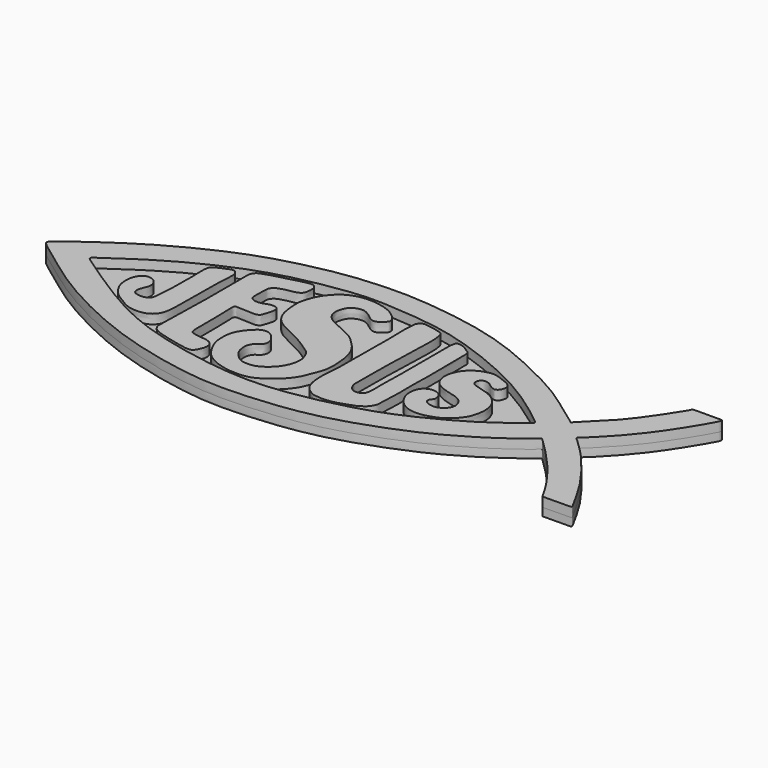
from build123d import *

# Parameters (mm, degrees)
F1_DEPTH = 1.2
F2_DEPTH = 1.4
F4_DEPTH = 1.4


with BuildPart() as f1:
    # F0 (on Top) → F1 (new body)
    with BuildSketch(Plane.XY):
        with BuildLine():
            add(Edge.make_bspline(
                [(-43.031219393, -3.6215421278), (-43.0401101532, -3.3956789099), (-42.1778940203, -2.615741381), (-36.8683866093, 1.2809185281), (-30.4366906731, 5.2325107346), (-22.1013352862, 9.1652834682), (-14.1446152779, 11.1480264851), (-9.1325028157, 11.9738115561), (-3.5176965877, 12.3176364163), (1.5448362993, 12.0922765028), (9.0594719315, 11.0493380322), (15.2803426019, 9.2352519358), (20.6334757072, 6.8533119738), (26.0751942455, 4.1291421377), (29.3903348279, 1.7300821172), (33.0245222369, -0.8482026665), (33.1025277506, -1.0395243863), (33.9047509366, -0.0091894128), (37.1780270169, 2.8880546695), (39.8363647052, 6.6807672229), (41.9579289635, 9.9024071216), (41.9947026793, 10.1696343737), (42.1800977792, 10.4650137574), (42.2828016541, 10.4689683158), (46.511756009, 10.5664729451), (46.5447635174, 10.4363389366), (46.5227730361, 10.1308533292), (46.3530605727, 9.68393666), (42.0660914793, 2.2096587515), (36.7983122491, -2.9714825467), (36.2055062651, -3.4021984465), (36.1078737733, -3.5347096618), (36.0932366558, -3.7268504327), (36.3039441205, -3.8066232704), (38.4139889081, -5.8692713437), (39.4748737725, -6.9941318474), (41.6286965799, -9.5579595656), (43.9981918641, -12.8807217494), (45.4060667727, -15.4214840712), (46.5348349338, -17.3737108019), (46.501967636, -17.4908855965), (46.5198529553, -17.573564463), (46.4236731804, -17.6227927852), (46.3720931883, -17.6065336963), (42.4172409302, -17.6234246975), (42.3405078684, -17.6807750746), (42.1899745805, -17.6181589114), (42.074209391, -17.4167100794), (40.8911302811, -15.2010978912), (38.0549379577, -11.3961958364), (35.494905722, -8.6383753681), (33.3748434311, -6.5145387203), (33.1991840527, -6.4319917961), (33.0961691915, -6.2616964833), (32.9642277468, -6.3159605791), (32.8277174234, -6.4619439899), (32.2254075278, -6.9917214406), (28.8922245487, -9.5173698097), (22.4736396762, -13.5263607413), (13.6041897449, -17.0088883666), (6.1006423527, -18.95581677), (-3.3026712381, -19.6829448337), (-9.7572604922, -19.3455526754), (-22.2649409961, -16.6499305606), (-33.891016358, -10.6729588168), (-38.5064648078, -7.2240165729), (-42.2122142832, -4.5514467124), (-43.0223366104, -3.8472026828), (-43.031219393, -3.6215421278)],
                knots=[0, 0, 0, 0, 0.0094847359, 0.0332365676, 0.0598628212, 0.0884700263, 0.1152422107, 0.1364379006, 0.1582552997, 0.1795957917, 0.2053600897, 0.2293992414, 0.2522004221, 0.2749826954, 0.2954008264, 0.3141136932, 0.3166130002, 0.3257519957, 0.3455221673, 0.3670885997, 0.3845512425, 0.389219823, 0.3941383134, 0.3980081416, 0.4171297206, 0.4198296057, 0.4245059586, 0.4303133911, 0.4578526524, 0.4838737847, 0.4905557366, 0.4940567967, 0.4977080289, 0.5016365912, 0.5172590534, 0.5298975506, 0.5467117433, 0.5658749631, 0.582726117, 0.595884193, 0.5985856801, 0.6010367928, 0.6036620629, 0.606563961, 0.6250757468, 0.6285771005, 0.6317875884, 0.6357855969, 0.6499156562, 0.6708582281, 0.6901065081, 0.7054260521, 0.7092460332, 0.7129760853, 0.7160775499, 0.7200061105, 0.7276462559, 0.7461954315, 0.772597206, 0.8015370756, 0.8280835004, 0.8563166816, 0.8803008046, 0.9138863086, 0.9479642859, 0.9708509668, 0.9905237746, 1, 1, 1, 1], degree=3))
        make_face()
        with BuildLine():
            add(Edge.make_bspline(
                [(-35.2086238563, -4.6942098998), (-35.5560492691, -4.4549340903), (-35.8023955992, -4.2855470609), (-36.4771119968, -3.8192019021), (-36.5613563891, -3.6729759366), (-36.6721448637, -3.4510821527), (-35.4871413647, -2.6644329143), (-34.436389808, -1.9848345377), (-32.1487629995, -0.355742233), (-27.5101540788, 2.5177900207), (-21.3770945882, 5.3873769777), (-17.8557997637, 6.5517019847), (-13.8406297339, 7.6861817096), (-6.1528974739, 9.029849479), (-0.7732841667, 8.7950185924), (6.9327809569, 8.0990668116), (14.1196713233, 5.7391524967), (20.8239740998, 2.8407366486), (26.1452742876, -0.5287973779), (29.5403865218, -3.2480544731), (29.7883593759, -3.4552252407), (29.8578722159, -3.5624749225), (29.8995992674, -3.7583260773), (29.5322546187, -4.0096688328), (25.352310231, -7.4475001734), (19.4870151494, -10.5706905966), (13.3432631821, -13.5014820582), (1.845989822, -16.1829622606), (-6.5894812229, -16.2298607675), (-17.7466162352, -14.1655878899), (-26.3284813584, -10.8134796234), (-34.0134557081, -5.517335715), (-35.2086238563, -4.6942098998)],
                knots=[0, 0, 0, 0, 0.0155660886, 0.0299913623, 0.0368898659, 0.0434544558, 0.0625054155, 0.0823981502, 0.1099887241, 0.1506085168, 0.1953004772, 0.2277039994, 0.2624274464, 0.3097017561, 0.3500741492, 0.3969252205, 0.4442519612, 0.4902742004, 0.5347200691, 0.5685155727, 0.5767707136, 0.5825152139, 0.5892699988, 0.5986528969, 0.6368941042, 0.6821834817, 0.7269928393, 0.784881239, 0.8354052055, 0.8915213444, 0.9464515471, 1, 1, 1, 1], degree=3))
        make_face(mode=Mode.SUBTRACT)
        with BuildLine():
            add(Edge.make_bspline(
                [(-35.2086238563, -4.6942098998), (-35.5560492691, -4.4549340903), (-35.8023955992, -4.2855470609), (-36.4771119968, -3.8192019021), (-36.5613563891, -3.6729759366), (-36.6721448637, -3.4510821527), (-35.4871413647, -2.6644329143), (-34.436389808, -1.9848345377), (-32.1487629995, -0.355742233), (-27.5101540788, 2.5177900207), (-21.3770945882, 5.3873769777), (-17.8557997637, 6.5517019847), (-13.8406297339, 7.6861817096), (-6.1528974739, 9.029849479), (-0.7732841667, 8.7950185924), (6.9327809569, 8.0990668116), (14.1196713233, 5.7391524967), (20.8239740998, 2.8407366486), (26.1452742876, -0.5287973779), (29.5403865218, -3.2480544731), (29.7883593759, -3.4552252407), (29.8578722159, -3.5624749225), (29.8995992674, -3.7583260773), (29.5322546187, -4.0096688328), (25.352310231, -7.4475001734), (19.4870151494, -10.5706905966), (13.3432631821, -13.5014820582), (1.845989822, -16.1829622606), (-6.5894812229, -16.2298607675), (-17.7466162352, -14.1655878899), (-26.3284813584, -10.8134796234), (-34.0134557081, -5.517335715), (-35.2086238563, -4.6942098998)],
                knots=[0, 0, 0, 0, 0.0155660886, 0.0299913623, 0.0368898659, 0.0434544558, 0.0625054155, 0.0823981502, 0.1099887241, 0.1506085168, 0.1953004772, 0.2277039994, 0.2624274464, 0.3097017561, 0.3500741492, 0.3969252205, 0.4442519612, 0.4902742004, 0.5347200691, 0.5685155727, 0.5767707136, 0.5825152139, 0.5892699988, 0.5986528969, 0.6368941042, 0.6821834817, 0.7269928393, 0.784881239, 0.8354052055, 0.8915213444, 0.9464515471, 1, 1, 1, 1], degree=3))
        make_face()
    extrude(amount=-F1_DEPTH)

    # F0 (on Top) → F2 (join)
    with BuildSketch(Plane.XY):
        with BuildLine():
            add(Edge.make_bspline(
                [(-43.031219393, -3.6215421278), (-43.0401101532, -3.3956789099), (-42.1778940203, -2.615741381), (-36.8683866093, 1.2809185281), (-30.4366906731, 5.2325107346), (-22.1013352862, 9.1652834682), (-14.1446152779, 11.1480264851), (-9.1325028157, 11.9738115561), (-3.5176965877, 12.3176364163), (1.5448362993, 12.0922765028), (9.0594719315, 11.0493380322), (15.2803426019, 9.2352519358), (20.6334757072, 6.8533119738), (26.0751942455, 4.1291421377), (29.3903348279, 1.7300821172), (33.0245222369, -0.8482026665), (33.1025277506, -1.0395243863), (33.9047509366, -0.0091894128), (37.1780270169, 2.8880546695), (39.8363647052, 6.6807672229), (41.9579289635, 9.9024071216), (41.9947026793, 10.1696343737), (42.1800977792, 10.4650137574), (42.2828016541, 10.4689683158), (46.511756009, 10.5664729451), (46.5447635174, 10.4363389366), (46.5227730361, 10.1308533292), (46.3530605727, 9.68393666), (42.0660914793, 2.2096587515), (36.7983122491, -2.9714825467), (36.2055062651, -3.4021984465), (36.1078737733, -3.5347096618), (36.0932366558, -3.7268504327), (36.3039441205, -3.8066232704), (38.4139889081, -5.8692713437), (39.4748737725, -6.9941318474), (41.6286965799, -9.5579595656), (43.9981918641, -12.8807217494), (45.4060667727, -15.4214840712), (46.5348349338, -17.3737108019), (46.501967636, -17.4908855965), (46.5198529553, -17.573564463), (46.4236731804, -17.6227927852), (46.3720931883, -17.6065336963), (42.4172409302, -17.6234246975), (42.3405078684, -17.6807750746), (42.1899745805, -17.6181589114), (42.074209391, -17.4167100794), (40.8911302811, -15.2010978912), (38.0549379577, -11.3961958364), (35.494905722, -8.6383753681), (33.3748434311, -6.5145387203), (33.1991840527, -6.4319917961), (33.0961691915, -6.2616964833), (32.9642277468, -6.3159605791), (32.8277174234, -6.4619439899), (32.2254075278, -6.9917214406), (28.8922245487, -9.5173698097), (22.4736396762, -13.5263607413), (13.6041897449, -17.0088883666), (6.1006423527, -18.95581677), (-3.3026712381, -19.6829448337), (-9.7572604922, -19.3455526754), (-22.2649409961, -16.6499305606), (-33.891016358, -10.6729588168), (-38.5064648078, -7.2240165729), (-42.2122142832, -4.5514467124), (-43.0223366104, -3.8472026828), (-43.031219393, -3.6215421278)],
                knots=[0, 0, 0, 0, 0.0094847359, 0.0332365676, 0.0598628212, 0.0884700263, 0.1152422107, 0.1364379006, 0.1582552997, 0.1795957917, 0.2053600897, 0.2293992414, 0.2522004221, 0.2749826954, 0.2954008264, 0.3141136932, 0.3166130002, 0.3257519957, 0.3455221673, 0.3670885997, 0.3845512425, 0.389219823, 0.3941383134, 0.3980081416, 0.4171297206, 0.4198296057, 0.4245059586, 0.4303133911, 0.4578526524, 0.4838737847, 0.4905557366, 0.4940567967, 0.4977080289, 0.5016365912, 0.5172590534, 0.5298975506, 0.5467117433, 0.5658749631, 0.582726117, 0.595884193, 0.5985856801, 0.6010367928, 0.6036620629, 0.606563961, 0.6250757468, 0.6285771005, 0.6317875884, 0.6357855969, 0.6499156562, 0.6708582281, 0.6901065081, 0.7054260521, 0.7092460332, 0.7129760853, 0.7160775499, 0.7200061105, 0.7276462559, 0.7461954315, 0.772597206, 0.8015370756, 0.8280835004, 0.8563166816, 0.8803008046, 0.9138863086, 0.9479642859, 0.9708509668, 0.9905237746, 1, 1, 1, 1], degree=3))
        make_face()
        with BuildLine():
            add(Edge.make_bspline(
                [(-35.2086238563, -4.6942098998), (-35.5560492691, -4.4549340903), (-35.8023955992, -4.2855470609), (-36.4771119968, -3.8192019021), (-36.5613563891, -3.6729759366), (-36.6721448637, -3.4510821527), (-35.4871413647, -2.6644329143), (-34.436389808, -1.9848345377), (-32.1487629995, -0.355742233), (-27.5101540788, 2.5177900207), (-21.3770945882, 5.3873769777), (-17.8557997637, 6.5517019847), (-13.8406297339, 7.6861817096), (-6.1528974739, 9.029849479), (-0.7732841667, 8.7950185924), (6.9327809569, 8.0990668116), (14.1196713233, 5.7391524967), (20.8239740998, 2.8407366486), (26.1452742876, -0.5287973779), (29.5403865218, -3.2480544731), (29.7883593759, -3.4552252407), (29.8578722159, -3.5624749225), (29.8995992674, -3.7583260773), (29.5322546187, -4.0096688328), (25.352310231, -7.4475001734), (19.4870151494, -10.5706905966), (13.3432631821, -13.5014820582), (1.845989822, -16.1829622606), (-6.5894812229, -16.2298607675), (-17.7466162352, -14.1655878899), (-26.3284813584, -10.8134796234), (-34.0134557081, -5.517335715), (-35.2086238563, -4.6942098998)],
                knots=[0, 0, 0, 0, 0.0155660886, 0.0299913623, 0.0368898659, 0.0434544558, 0.0625054155, 0.0823981502, 0.1099887241, 0.1506085168, 0.1953004772, 0.2277039994, 0.2624274464, 0.3097017561, 0.3500741492, 0.3969252205, 0.4442519612, 0.4902742004, 0.5347200691, 0.5685155727, 0.5767707136, 0.5825152139, 0.5892699988, 0.5986528969, 0.6368941042, 0.6821834817, 0.7269928393, 0.784881239, 0.8354052055, 0.8915213444, 0.9464515471, 1, 1, 1, 1], degree=3))
        make_face(mode=Mode.SUBTRACT)
    extrude(amount=F2_DEPTH)

    # F3 (on face) → F4 (join)
    with BuildSketch(Plane.XY):
        with BuildLine():
            add(Edge.make_bspline(
                [(-26.0046981275, -7.3765199631), (-26.1926642682, -7.3764443188), (-26.5427466606, -7.3475394744), (-26.9352724032, -7.2051876049), (-27.2106619849, -6.9227643059), (-27.3144181957, -6.5758804963), (-27.2235043994, -6.0426920136), (-26.966370209, -5.3736692428), (-26.7314054582, -4.8485463123), (-26.7280108875, -4.2104939537), (-27.000434868, -3.6016787373), (-27.498435694, -3.2179723286), (-28.0838734348, -2.9904605442), (-28.6652973005, -3.0407063069), (-29.2943793318, -3.4410822264), (-29.7041054077, -4.3040245947), (-29.8763773019, -5.2956455286), (-29.6952917358, -6.8777315583), (-28.7005030798, -8.3383878956), (-27.8018701553, -9.1036730397), (-26.2719618642, -10.0097306172), (-25.1917392236, -10.5590466571), (-23.6765535766, -10.6548033494), (-22.4171153786, -10.3492380815), (-21.3646285385, -9.4274129363), (-21.0869248974, -7.7065465174), (-21.0626662778, -6.5906629767), (-21.0017705348, -3.6312714423), (-21.0741312292, -0.1868753815), (-20.8523138165, 2.9762255609), (-20.8467324242, 3.7097576416), (-21.0958282791, 4.1933794722), (-21.3918108326, 4.4229964134), (-21.7525427286, 4.503662402), (-22.1776629955, 4.3249520956), (-22.6995212918, 4.1254412158), (-23.3660042399, 3.8401591858), (-23.7888097259, 3.6235734464), (-24.1778268688, 3.3947976108), (-24.3122842368, 3.0145829071), (-24.3777288564, 2.5750132771), (-24.4239145569, 2.0900194277), (-24.3184269871, 0.3752100408), (-24.4137698258, -1.3996176035), (-24.3568460452, -3.2435387487), (-24.5161099121, -5.3697879599), (-24.5615666769, -6.0569132513), (-24.6328713863, -6.5671137987), (-24.7692887164, -6.898157276), (-24.9952329243, -7.1631267888), (-25.4442836266, -7.345985892), (-25.8123763558, -7.3765973604), (-26.0046981275, -7.3765199631)],
                knots=[0, 0, 0, 0, 0.0157422945, 0.0294067876, 0.0424161465, 0.0548646756, 0.0704336, 0.0886255176, 0.1048419365, 0.1215551397, 0.1387121947, 0.1554941567, 0.1721824293, 0.1881028323, 0.206033237, 0.2264786851, 0.2478476734, 0.2745972727, 0.3025628531, 0.3260798516, 0.3541698328, 0.377968495, 0.4037565032, 0.4278717133, 0.4523719805, 0.4796560273, 0.5024852116, 0.5383787672, 0.5799835774, 0.6173597475, 0.6350342607, 0.6499854899, 0.6628513934, 0.6753286413, 0.6895149349, 0.705757785, 0.7239474692, 0.7388712072, 0.7527416168, 0.7660180295, 0.7798954776, 0.7946328588, 0.8222156942, 0.8512166641, 0.8808671837, 0.9118262749, 0.9295315719, 0.9443730845, 0.9569944547, 0.9692651697, 0.9838929184, 1, 1, 1, 1], degree=3))
        make_face()
        with BuildLine():
            add(Edge.make_bspline(
                [(-15.6035749242, 1.9969278947), (-15.5968198481, 2.2002735006), (-15.5790110703, 2.6106673131), (-15.6001275726, 3.28626252), (-15.3299673686, 3.6916180057), (-15.0031978085, 4.0189077807), (-14.4113852596, 4.2051471368), (-13.7697839213, 4.4405862029), (-12.5899500229, 4.5389032035), (-11.673303612, 4.9625016462), (-11.510065149, 5.5914460049), (-11.3523133163, 6.6791210907), (-11.8490433613, 7.4463066945), (-12.9451355143, 7.3707348588), (-14.8819299234, 6.8480810505), (-16.8803747424, 6.3307263106), (-18.6162549541, 5.8035713081), (-19.162862975, 5.4984763006), (-19.5853586852, 4.8664944544), (-19.4923781378, 3.8647439326), (-19.5452660108, 0.3149992953), (-19.5049109588, -2.7129703239), (-19.6390780211, -7.9245884257), (-19.6981432284, -11.3540967665), (-19.7602111655, -11.9870425504), (-19.6016641643, -12.3722323685), (-19.2894304767, -12.8031015228), (-18.6813201433, -13.1708498322), (-17.4008722623, -13.557147798), (-16.0445058079, -13.8990957553), (-14.4139262799, -14.250720595), (-13.5575811825, -14.4037477723), (-12.8156232537, -14.3705404763), (-12.4066429943, -13.8459742585), (-12.0909681559, -13.1148978348), (-11.9707922404, -12.6377991155), (-12.0640711792, -11.8899117977), (-12.4600420349, -11.4516167499), (-13.2612897824, -11.146173346), (-14.329039241, -11.1159687113), (-14.9984731146, -10.9778179202), (-15.5562948562, -10.8198073534), (-15.736313438, -10.3939603705), (-15.8092937715, -9.8394460548), (-15.7628970904, -7.1737248899), (-15.8156974268, -4.4680340436), (-15.8611279455, -3.1663241225), (-15.8825428886, -2.8775461836), (-15.7930927599, -2.6310473267), (-15.5881578905, -2.5051686728), (-14.9900398235, -2.5768990916), (-14.1873092759, -2.6171863929), (-12.9363971191, -2.6491893109), (-12.5424308062, -2.6016792193), (-12.1662440528, -2.4825300011), (-11.969285803, -2.1440786641), (-11.626801709, -1.0903021262), (-11.5171175853, -0.4354941735), (-11.6084984656, 0.0190824397), (-11.9683221408, 0.4146144818), (-13.0088367394, 0.3638267624), (-13.8369605134, -0.0714579735), (-14.9455354033, -0.1006982289), (-15.6103983641, 0.3437563222), (-15.6379137134, 0.9350203177), (-15.6189389863, 1.4245945373), (-15.6100432097, 1.80221544), (-15.6035749242, 1.9969278947)],
                knots=[0, 0, 0, 0, 0.0127865817, 0.0259157572, 0.0369286161, 0.0477489148, 0.0602065093, 0.0736781812, 0.0914477969, 0.1070749221, 0.1196709297, 0.1364641079, 0.1505771622, 0.1665067698, 0.1895335656, 0.2135981453, 0.2350180129, 0.2475604663, 0.2605348897, 0.2764417955, 0.3063219429, 0.3356068025, 0.3731868625, 0.4027303018, 0.4146432446, 0.4245596423, 0.4360833744, 0.4495561297, 0.4680884962, 0.4877882863, 0.5086081595, 0.5238473582, 0.5370018458, 0.5498226646, 0.5641672939, 0.5756744305, 0.5892478711, 0.6013197928, 0.6161230453, 0.6329293331, 0.6465073049, 0.6583089929, 0.6684495955, 0.6801196983, 0.7063614051, 0.7342228093, 0.7518437193, 0.760149446, 0.7679343293, 0.7753423133, 0.787387302, 0.8026046473, 0.8205881311, 0.8309167902, 0.8403454858, 0.8502429607, 0.8673196025, 0.880747479, 0.8912609137, 0.9022848067, 0.918147555, 0.9341604776, 0.9508616386, 0.9645067967, 0.9763507253, 0.9877562798, 1, 1, 1, 1], degree=3))
        make_face()
        with BuildLine():
            add(Edge.make_bspline(
                [(-2.3801389616, -6.1294897459), (-2.7880794369, -5.8433790691), (-2.7215368109, -5.8973088641), (-4.6793508861, -4.5339770179), (-6.7520923139, -3.5857097331), (-8.955463971, -2.5052275921), (-10.0367862556, -1.1471527474), (-10.4394192431, 0.2760992696), (-10.6253199324, 1.9343600481), (-10.595656996, 3.2514751098), (-10.0728974607, 4.7768953207), (-9.5057673565, 5.9113274141), (-8.6578325948, 6.8947452412), (-8.0813221822, 7.433451291), (-7.1160250827, 8.019261127), (-6.086092822, 8.3363634513), (-5.1589770492, 8.4968252075), (-3.8094161883, 8.4929803337), (-2.6382904675, 8.317539446), (-1.0216656192, 7.8270390509), (-0.018420758, 6.9930470317), (0.5834730465, 6.4596265096), (0.7581795562, 5.7627350546), (0.5053312641, 5.4511389865), (-0.0139236678, 5.0451040917), (-0.4986784557, 4.5920259207), (-1.3005270688, 4.6878804138), (-1.8153575103, 5.1430822622), (-2.4784563941, 5.6510178367), (-3.3523139391, 6.0956732849), (-4.2250961278, 5.9961371451), (-5.0746224861, 5.5995930113), (-5.5299498889, 4.8929553096), (-5.870262378, 3.6840146219), (-5.5492933956, 2.5656395302), (-4.6854657038, 1.7614502015), (-3.5415799862, 1.2336135265), (-2.2193367529, 0.5640546254), (-0.883701227, 0.0830817612), (0.3184142099, -0.987347875), (1.4089635697, -2.1082718385), (2.2439703097, -3.6819749453), (2.5635435264, -5.9372380504), (2.6341431857, -8.2295061247), (1.9285160277, -10.0050374997), (1.3346341158, -11.6854751435), (0.0466476076, -13.3330940833), (-1.5820606382, -14.6668047438), (-3.3891821811, -15.6400246077), (-5.6527322653, -15.7209866154), (-7.9531508549, -15.3194807426), (-9.8057024413, -14.3927508402), (-10.8689525118, -13.2605599869), (-11.7779085323, -11.5800869744), (-12.104328619, -10.2088279036), (-12.0498409912, -9.1334599616), (-11.9797307998, -8.5725756362)],
                knots=[0, 0, 0, 0, 0.0126317561, 0.0349376814, 0.0603708556, 0.0850475915, 0.1055437147, 0.1247859608, 0.1452236221, 0.1636158916, 0.1835850289, 0.2018252438, 0.2196454402, 0.2338739494, 0.2506089252, 0.2671192801, 0.2826194514, 0.3008545632, 0.3184789364, 0.3390781134, 0.3572711417, 0.3714960768, 0.3840869033, 0.3936656688, 0.4065754765, 0.4193987134, 0.4328901954, 0.4460216582, 0.460637244, 0.4761906103, 0.4909255927, 0.5059511995, 0.5203641887, 0.5379516395, 0.5547501215, 0.5716514247, 0.5895707122, 0.6089552567, 0.6279212193, 0.647941406, 0.6678150017, 0.6887823258, 0.7128769578, 0.7369828358, 0.758770164, 0.7799245024, 0.8027866981, 0.8259341449, 0.8484598865, 0.8721898629, 0.8966786781, 0.9192470647, 0.9390528517, 0.9607930894, 0.979687944, 1, 1, 1, 1], degree=3))
            add(Edge.make_bspline(
                [(-11.9797307998, -8.5725756362), (-11.9085665419, -8.0704028947), (-11.6114150257, -7.3932704214), (-11.0901686036, -6.5691010135), (-10.3386913885, -5.7677894143), (-9.6616200228, -5.196519551), (-8.6091836431, -5.1195725205), (-7.8870066376, -5.6565175122), (-7.4718061697, -6.1759896855), (-7.0667016551, -6.7394995492), (-7.0153560163, -7.6014507654), (-7.4314456458, -8.2113679044), (-8.0643714374, -8.5294879006), (-8.4026785001, -9.0184558459), (-8.5947188088, -9.5953340891), (-8.5275945365, -10.3868020631), (-8.3231492027, -11.3323283429), (-7.4958434313, -12.2384370178), (-6.6407074643, -12.9032215985), (-5.6031026083, -12.9797124219), (-4.685286146, -12.9221837025), (-3.7846568357, -12.5039044816), (-3.0701484502, -11.9875545135), (-2.2648101198, -11.2027126413), (-1.7374309495, -10.2728094309), (-1.4052435081, -9.3707333749), (-1.2725796968, -8.2197686565), (-1.527646006, -7.4000747802), (-1.7756025857, -6.7629888918), (-2.1350554149, -6.3320842765), (-2.3801389616, -6.1294897459)],
                knots=[0, 0, 0, 0, 0.0424844434, 0.0794820574, 0.1189772768, 0.154417528, 0.1917173703, 0.2268837288, 0.2577210303, 0.2889094947, 0.323013794, 0.3547446323, 0.3862186236, 0.4148689875, 0.443892287, 0.4773031174, 0.5143201542, 0.5559682428, 0.5951050627, 0.6329273929, 0.6692929982, 0.7064333822, 0.7421636448, 0.7821415069, 0.8211464152, 0.8584480133, 0.8988809187, 0.9336827556, 0.9645797157, 1, 1, 1, 1], degree=3))
        make_face()
        with BuildLine():
            add(Edge.make_bspline(
                [(3.3850688487, 2.3589460179), (3.3963364129, 1.4888836598), (3.3738904553, 0.2962960598), (3.3574469315, -2.2377812427), (3.2735085886, -4.9077066546), (3.3738401809, -7.175382812), (3.0691445472, -9.6192321906), (3.1514827602, -11.2305197484), (3.3377202607, -12.2214728639), (3.7138692498, -13.1456981321), (4.3063668088, -13.6697118478), (5.1113172062, -14.2695489764), (6.0270773247, -14.3718973765), (6.85190671, -14.4521964911), (7.947147438, -14.3175429308), (8.9709705357, -14.1046795011), (10.2068943393, -13.6029525084), (11.159998664, -13.3273957926), (11.8267215554, -12.8023794783), (12.1365385351, -12.5649746444), (12.4720567608, -12.0471999745), (12.7309226781, -11.6011003876), (12.7339551286, -9.9915253917), (12.8907800363, -7.6197228872), (12.7752968179, -5.2921920313), (12.9144595629, -3.3176962854), (12.8491121042, -0.9594584376), (12.8301532356, 1.0222694497), (12.80197946, 2.5177290773), (12.8337961445, 3.8912655724), (12.8469890357, 4.3346720152), (12.8817957521, 4.7967326138), (12.7653281897, 5.1701435125), (12.6181961607, 5.3703690798), (12.3584016546, 5.5508965586), (11.9997357671, 5.7836167688), (11.6240002558, 6.0099301834), (11.1340628922, 6.2485839429), (10.6912110062, 6.3438613943), (10.2234032089, 6.3335813647), (10.0846306504, 5.7960293455), (9.9677539932, 4.9749007328), (10.0773840504, 2.2555895946), (9.9845526896, -0.5375518276), (10.0618755362, -4.2431739121), (9.8983048367, -7.2793313908), (10.0046054522, -8.871622296), (9.8858690969, -9.8311566225), (9.702919264, -10.3238547211), (9.306580419, -10.5356792682), (8.8220049959, -10.65544265), (8.2651224069, -10.5757785132), (7.8845839477, -10.3083618628), (7.5793246428, -9.8482189673), (7.2520887073, -9.2203149197), (7.411515353, -6.3878615964), (7.3515966149, -3.4519928421), (7.5312986362, 0.0183802191), (7.580992821, 2.5858799814), (7.653808009, 5.1486626138), (7.5657561211, 5.9906030923), (7.3834508931, 7.1766319503), (6.5400347498, 7.3352519092), (5.7891829823, 7.5672680567), (5.0212597607, 7.617822525), (4.2471481184, 7.8704440675), (3.6832612746, 7.432580231), (3.3752399914, 7.0453728472), (3.3619117395, 5.8449193041), (3.3080755239, 5.458270551), (3.371514728, 3.4055724273), (3.3850688487, 2.3589460179)],
                knots=[0, 0, 0, 0, 0.0196658821, 0.040765836, 0.0628897012, 0.0833944336, 0.1045616829, 0.121587039, 0.1350428512, 0.1481773973, 0.1601519889, 0.1734876942, 0.1862656258, 0.198570029, 0.2125672357, 0.2265409822, 0.2420602974, 0.2557118426, 0.2677687436, 0.2762780715, 0.2865075293, 0.2959923049, 0.3125915159, 0.3338684136, 0.3544367454, 0.3734447404, 0.3941734447, 0.4131810956, 0.4299869037, 0.4454861759, 0.4544508029, 0.4634601447, 0.4717946649, 0.4783707307, 0.485856831, 0.4946728126, 0.5037011095, 0.5136036064, 0.5228385135, 0.5312697033, 0.5403071257, 0.5525348143, 0.5744050273, 0.597588746, 0.6237038159, 0.6473519819, 0.6642501396, 0.6772117664, 0.6865730085, 0.6952503232, 0.7047919364, 0.7147414311, 0.723811211, 0.7334775682, 0.744373448, 0.766495369, 0.7905138855, 0.815394967, 0.8376586608, 0.8587146141, 0.8715212322, 0.8852082146, 0.8969074506, 0.908931779, 0.9208466774, 0.932659151, 0.9433260784, 0.9529356928, 0.9670362323, 0.9763432685, 1, 1, 1, 1], degree=3))
        make_face()
        with BuildLine():
            add(Edge.make_bspline(
                [(18.4019431472, -4.2545790784), (17.9400190842, -4.1022582733), (16.9400389354, -3.9328777157), (15.6070554582, -3.3778161571), (14.7907363554, -2.7446262111), (14.3915672332, -1.8109330508), (14.2825166537, -0.7939763626), (14.5495473126, 0.2555271169), (15.0091427856, 1.1364859968), (15.6293041101, 1.8338155742), (16.3553376689, 2.3214584122), (17.1449479928, 2.7198316561), (18.4696266944, 3.0006026178), (19.5124187767, 2.7208098073), (20.5375805382, 2.3153011394), (21.4005321368, 1.9160060567), (21.7771139943, 1.3851328543), (21.7464667132, 1.0012018922), (21.6778970417, 0.5936016674), (21.4849263295, 0.2398628011), (21.1012986398, -0.0400940234), (20.7758223452, -0.029005281), (20.1310984453, 0.2791248911), (19.7188220534, 0.6638425017), (19.263641454, 0.8626250142), (18.8028257199, 0.9435426729), (18.2956054024, 0.7879985889), (18.0672421597, 0.3643255837), (18.0438270636, -0.3896746198), (18.835761281, -0.7099775883), (19.602022715, -0.9014567933), (20.6262893338, -1.1955693436), (21.8225845084, -1.7093694301), (22.9364966475, -2.7963390447), (23.3516877911, -4.0073812363), (23.4539752076, -5.0150673393), (23.2405502132, -6.3732324014), (22.7361667219, -7.7420482077), (21.2889306858, -9.1746824694), (20.1871855216, -9.8031216169), (18.2356303992, -10.4235431594), (16.5930720829, -10.3605687166), (15.0351735647, -9.702597848), (13.8824264229, -8.1763970629), (13.6486395539, -6.8376997927), (13.8108340685, -5.688993425), (14.4660799456, -4.8734254341), (15.4372504123, -4.5715977337), (16.3524165199, -4.7442950639), (16.976125071, -5.3901650571), (17.0894740892, -6.3408990035), (16.7068700071, -6.6278723447), (16.5094651432, -7.1897721394), (17.0489339408, -7.6979642074), (18.2805862308, -7.9562820502), (19.493246547, -7.3884303753), (20.1795356267, -6.1772021536), (19.6132101597, -4.7938734401), (18.8296491964, -4.3956163938), (18.4019431472, -4.2545790784)],
                knots=[0, 0, 0, 0, 0.0220210469, 0.0435084618, 0.0614036258, 0.0790437583, 0.0970816904, 0.1156097551, 0.13345725, 0.1506591587, 0.1671877165, 0.1841189592, 0.2046626771, 0.2232925993, 0.2421781182, 0.2596711149, 0.2734256713, 0.2842310564, 0.2956187755, 0.3070319279, 0.3189110213, 0.3288500824, 0.3437938004, 0.3574852553, 0.3698765733, 0.3820886575, 0.3945625538, 0.4066819334, 0.4210894284, 0.4366309905, 0.4528108749, 0.4711433329, 0.4916652906, 0.5138196401, 0.5337812269, 0.5516942663, 0.5723533223, 0.5941932584, 0.6192277067, 0.6397565537, 0.6649728999, 0.6879303471, 0.7108266278, 0.7351559801, 0.7558829901, 0.7747761814, 0.7925493679, 0.810203052, 0.827029477, 0.8436884787, 0.8601882458, 0.8720982817, 0.884688651, 0.8989278906, 0.9186536502, 0.9389384346, 0.9590146253, 0.9796102093, 1, 1, 1, 1], degree=3))
        make_face()
    extrude(amount=F4_DEPTH)


solid = f1.part
